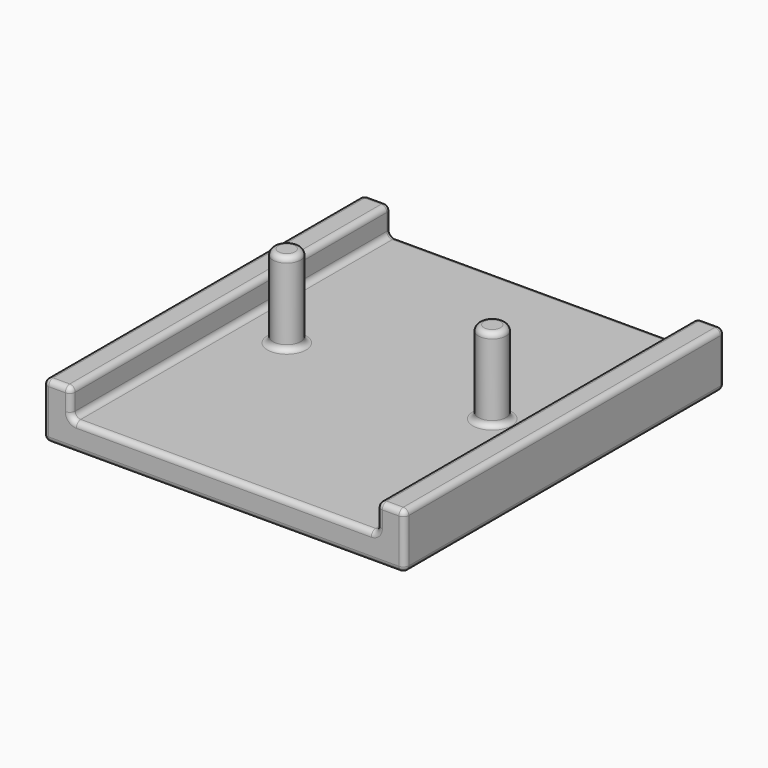
from build123d import *

# Parameters (mm, degrees)
F1_DEPTH      = 35
F1_DEPTH_BACK = 37.5
F2_R          = 2.5
F3_DEPTH      = 15
F4_R          = 1
F5_R          = 1
F6_R          = 1


with BuildPart() as f1:
    # F0 (on Front) → F1 (new body, two sides)
    with BuildSketch(Plane.XZ) as f1_sk:
        Polygon((-32.7, 0), (0, 0), (32.7, 0), (32.7, 10), (27.7, 10), (27.7, 5), (0, 5), (-27.7, 5), (-27.7, 10), (-32.7, 10), align=None)
    extrude(amount=-F1_DEPTH)
    extrude(f1_sk.sketch, amount=F1_DEPTH_BACK)

    # F2 (on face) → F3 (join)
    with BuildSketch(Plane.XY.offset(5)):
        with Locations((-18.6, 0)):
            Circle(F2_R)
        with Locations((18.6, 0)):
            Circle(F2_R)
    extrude(amount=F3_DEPTH)

    # F4
    f4_edges = [f1.edges().sort_by_distance(p)[0] for p in [
        (-27.7, -1.25, 5),
        (27.7, -1.25, 5),
        (-27.7, -1.25, 10),
        (-32.7, -1.25, 10),
        (27.7, -1.25, 10),
        (32.7, -1.25, 10),
        (32.7, -1.25, 0),
        (-32.7, -1.25, 0),
    ]]
    fillet(f4_edges, radius=F4_R)

    # F5
    f5_edges = [f1.edges().sort_by_distance(p)[0] for p in [
        (-21.1, 0, 20),
        (16.1, 0, 20),
    ]]
    fillet(f5_edges, radius=F5_R)

    # F6
    f6_edges = [f1.edges().sort_by_distance(p)[0] for p in [
        (0, -37.5, 5),
        (0, 35, 0),
        (-21.1, 0, 5),
        (16.1, 0, 5),
    ]]
    fillet(f6_edges, radius=F6_R)


solid = f1.part
